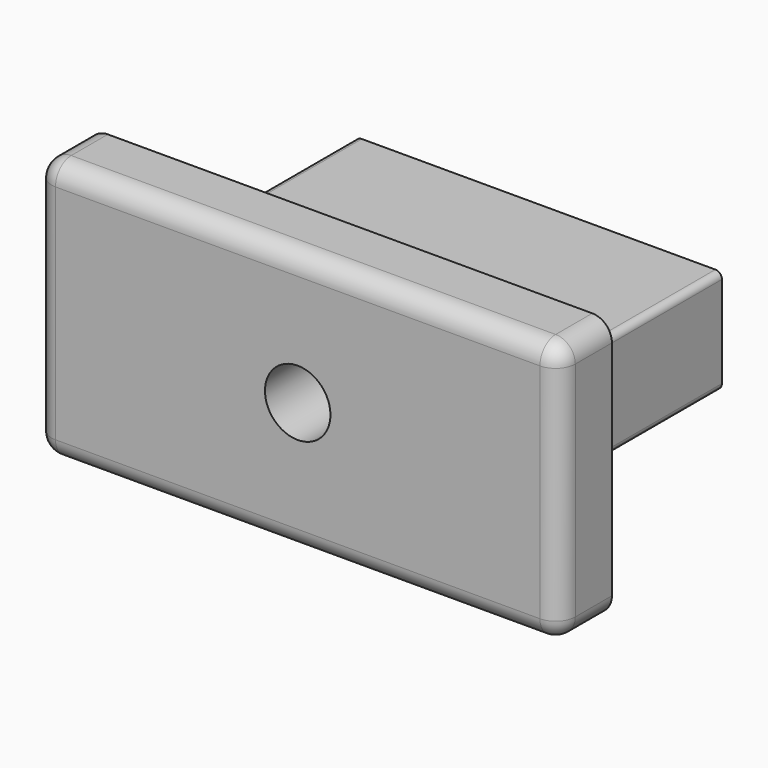
from build123d import *

# Parameters (mm, degrees)
SKETCH_W     = 30
SKETCH_H     = 10
PAD_DEPTH    = 3.1
SKETCH001_W  = 40
SKETCH001_H  = 20
PAD001_DEPTH = 5
FILLET_R     = 1.5
FILLET001_R  = 3
FILLET002_R  = 1.5
SKETCH002_W  = 28
SKETCH002_H  = 8
PAD002_DEPTH = 14.9
FILLET003_R  = 0.5
SKETCH003_R  = 2.5
POCKET_DEPTH = 25


with BuildPart() as part:
    # Sketch → Pad (new body)
    with BuildSketch(Plane.XZ):
        Rectangle(SKETCH_W, SKETCH_H)
    extrude(amount=PAD_DEPTH)

    # Sketch001 (on Face6 of Pad) → Pad001 (join)
    with BuildSketch(Plane.XZ.offset(3.1)):
        Rectangle(SKETCH001_W, SKETCH001_H)
    extrude(amount=PAD001_DEPTH)

    # Fillet
    fillet_edges = [part.edges().sort_by_distance(p)[0] for p in [
        (15, -1.55, 5),
        (15, -1.55, -5),
        (-15, -1.55, 5),
        (-15, -1.55, -5),
    ]]
    fillet(fillet_edges, radius=FILLET_R)

    # Fillet001
    fillet001_edges = [part.edges().sort_by_distance(p)[0] for p in [
        (0, -3.1, 5),
    ]]
    fillet(fillet001_edges, radius=FILLET001_R)

    # Fillet002
    fillet002_edges = [part.edges().sort_by_distance(p)[0] for p in [
        (0, -8.1, 10),
        (-20, -8.1, 0),
        (20, -8.1, 0),
        (0, -8.1, -10),
        (20, -5.6, 10),
        (-20, -5.6, 10),
        (20, -5.6, -10),
        (-20, -5.6, -10),
    ]]
    fillet(fillet002_edges, radius=FILLET002_R)

    # Sketch002 (on Face4 of Fillet001) → Pad002 (join)
    with BuildSketch(Plane(origin=(0, 0, 0), x_dir=(1, 0, 0), z_dir=(0, 1, 0))):
        Rectangle(SKETCH002_W, SKETCH002_H)
    extrude(amount=PAD002_DEPTH)

    # Fillet003
    fillet003_edges = [part.edges().sort_by_distance(p)[0] for p in [
        (14, 7.45, 4),
        (-14, 7.45, 4),
        (-14, 7.45, -4),
        (14, 7.45, -4),
    ]]
    fillet(fillet003_edges, radius=FILLET003_R)

    # Sketch003 (on Face18 of Fillet003) → Pocket (cut)
    with BuildSketch(Plane(origin=(0, 14.9, 0), x_dir=(1, 0, 0), z_dir=(0, 1, 0))):
        Circle(SKETCH003_R)
    extrude(amount=-POCKET_DEPTH, mode=Mode.SUBTRACT)


solid = part.part
